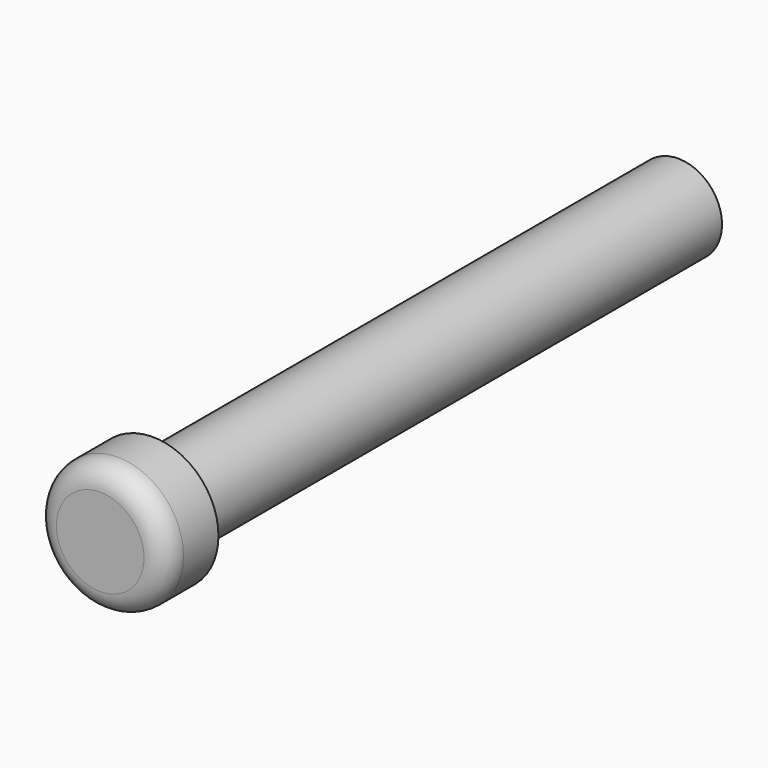
from build123d import *

# Parameters (mm, degrees)
F0_R     = 1.5
F1_DEPTH = 1.5
F2_R     = 0.5
F3_R     = 1
F4_DEPTH = 15


with BuildPart() as f1:
    # F0 (on Front) → F1 (new body)
    with BuildSketch(Plane.XZ):
        Circle(F0_R)
    extrude(amount=F1_DEPTH)

    # F2
    f2_edges = [f1.edges().sort_by_distance(p)[0] for p in [
        (-1.5, -1.5, 0),
    ]]
    fillet(f2_edges, radius=F2_R)

    # F3 (on face) → F4 (join)
    with BuildSketch(Plane(origin=(0, 0, 0), x_dir=(-1, 0, 0), z_dir=(0, 1, 0))):
        Circle(F3_R)
    extrude(amount=F4_DEPTH)


solid = f1.part
